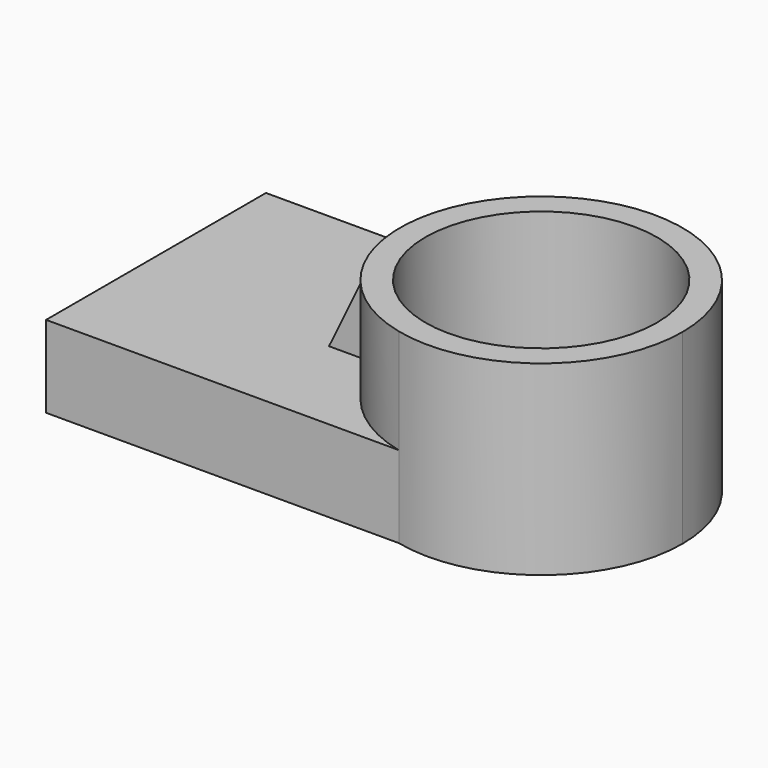
from build123d import *

# Parameters (mm, degrees)
F1_DEPTH = 13.716
F2_DEPTH = 31.242
F3_R     = 19.40346
F4_DEPTH = 44.45
F6_DEPTH = 11.938


with BuildPart() as f1:
    # F0 (on Top) → F1 (new body)
    with BuildSketch(Plane.XY):
        with BuildLine():
            Line((6.759355, 28.766602), (-52.353363, 28.766602))
            Line((-52.353363, 28.766602), (-52.353363, -17.296961))
            Line((-52.353363, -17.296961), (6.759355, -17.296961))
            ThreePointArc((6.759355, -17.296961), (-11.458258, 5.734821), (6.759355, 28.766602))
        make_face()
    extrude(amount=F1_DEPTH)

    # F0 (on Top) → F2 (join)
    with BuildSketch(Plane.XY):
        with BuildLine():
            ThreePointArc((35.877493, 5.734821), (26.892468, 24.297747), (6.759355, 28.766602))
            Line((6.759355, 28.766602), (12.209618, 28.766602))
            Line((12.209618, 28.766602), (12.209618, -17.296961))
            Line((12.209618, -17.296961), (6.759355, -17.296961))
            ThreePointArc((6.759355, -17.296961), (26.892468, -12.828105), (35.877493, 5.734821))
        make_face()
        with BuildLine():
            Line((12.209618, 28.766602), (6.759355, 28.766602))
            ThreePointArc((6.759355, 28.766602), (-11.458258, 5.734821), (6.759355, -17.296961))
            Line((6.759355, -17.296961), (12.209618, -17.296961))
            Line((12.209618, -17.296961), (12.209618, 28.766602))
        make_face()
    extrude(amount=F2_DEPTH)

    # F3 (on face) → F4 (cut)
    with BuildSketch(Plane.XY.offset(31.242)):
        with Locations((12.209618, 5.734821)):
            Circle(F3_R)
    extrude(amount=-F4_DEPTH, mode=Mode.SUBTRACT)

    # F5 (on Front) → F6 (join)
    with BuildSketch(Plane.XZ):
        Polygon((-10.565767, 13.289291), (-10.565767, 30.780276), (-18.974263, 13.289291), align=None)
    extrude(amount=-F6_DEPTH)


solid = f1.part
